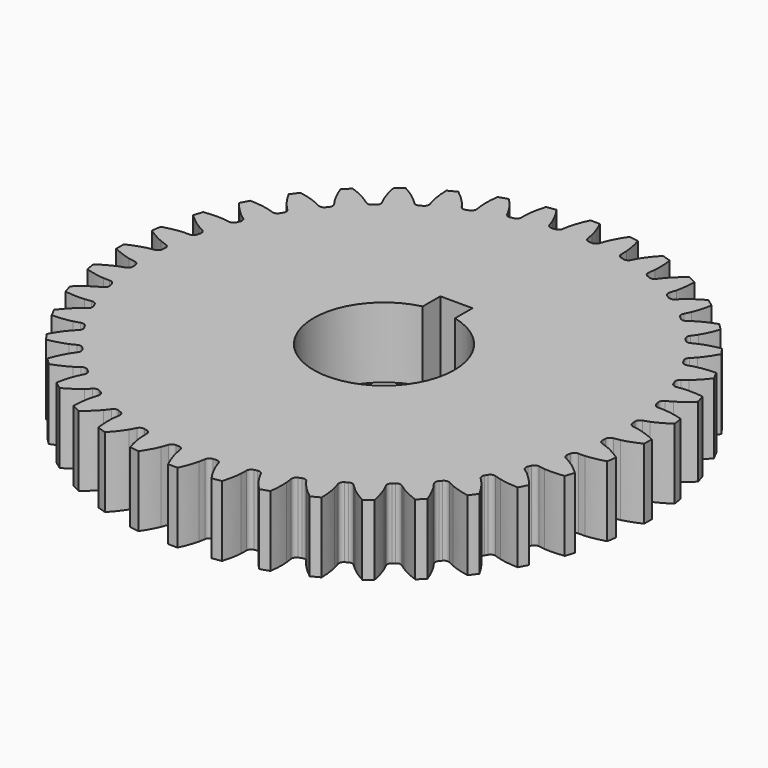
from build123d import *

# Parameters (mm, degrees)
PAD_DEPTH    = 7
POCKET_DEPTH = 7.001


with BuildPart() as part:
    # InvoluteGear → Pad (new body)
    with BuildSketch(Plane.XY):
        with BuildLine():
            add(Edge.make_bspline(
                [(23.803091, -1.251222), (23.961461, -1.232523), (24.173133, -1.198031), (24.435538, -1.134923)],
                knots=[0, 0, 0, 0, 1, 1, 1, 1], degree=3))
            add(Edge.make_bspline(
                [(24.435538, -1.134923), (24.896429, -1.02395), (25.508645, -0.826112), (26.246343, -0.475145)],
                knots=[0, 0, 0, 0, 1, 1, 1, 1], degree=3))
            ThreePointArc((26.246343, -0.475145), (26.250322, 0.000125), (26.245695, 0.475389))
            add(Edge.make_bspline(
                [(26.245695, 0.475389), (25.508645, 0.826112), (24.896429, 1.02395), (24.435538, 1.134923)],
                knots=[0, 0, 0, 0, 1, 1, 1, 1], degree=3))
            add(Edge.make_bspline(
                [(24.435538, 1.134923), (24.173133, 1.198031), (23.961461, 1.232523), (23.803162, 1.25121)],
                knots=[0, 0, 0, 0, 1, 1, 1, 1], degree=3))
            ThreePointArc((23.803162, 1.25121), (23.509632, 1.392834), (23.376469, 1.690299))
            ThreePointArc((23.376469, 1.690299), (23.36525, 1.838885), (23.353087, 1.987397))
            ThreePointArc((23.353087, 1.987397), (23.438058, 2.301998), (23.705769, 2.487806))
            add(Edge.make_bspline(
                [(23.705769, 2.487806), (23.859265, 2.53105), (24.062935, 2.59823), (24.312238, 2.70161)],
                knots=[0, 0, 0, 0, 1, 1, 1, 1], degree=3))
            add(Edge.make_bspline(
                [(24.312238, 2.70161), (24.750094, 2.883316), (25.323823, 3.17449), (25.997536, 3.636537)],
                knots=[0, 0, 0, 0, 1, 1, 1, 1], degree=3))
            ThreePointArc((25.997536, 3.636537), (25.927117, 4.106578), (25.8482, 4.575268))
            add(Edge.make_bspline(
                [(25.8482, 4.575268), (25.065359, 4.806372), (24.429732, 4.906003), (23.957155, 4.943511)],
                knots=[0, 0, 0, 0, 1, 1, 1, 1], degree=3))
            add(Edge.make_bspline(
                [(23.957155, 4.943511), (23.688109, 4.964792), (23.473647, 4.965747), (23.314373, 4.95944)],
                knots=[0, 0, 0, 0, 1, 1, 1, 1], degree=3))
            ThreePointArc((23.314373, 4.95944), (23.002302, 5.053402), (22.824245, 5.326374))
            ThreePointArc((22.824245, 5.326374), (22.78992, 5.471376), (22.754674, 5.616156))
            ThreePointArc((22.754674, 5.616156), (22.789384, 5.940177), (23.024733, 6.165577))
            add(Edge.make_bspline(
                [(23.024733, 6.165577), (23.169574, 6.2323), (23.360228, 6.330514), (23.590289, 6.47162)],
                knots=[0, 0, 0, 0, 1, 1, 1, 1], degree=3))
            add(Edge.make_bspline(
                [(23.590289, 6.47162), (23.994329, 6.719585), (24.515445, 7.096926), (25.108583, 7.658676)],
                knots=[0, 0, 0, 0, 1, 1, 1, 1], degree=3))
            ThreePointArc((25.108583, 7.658676), (24.965501, 8.111914), (24.814236, 8.562488))
            add(Edge.make_bspline(
                [(24.814236, 8.562488), (24.00488, 8.668284), (23.361493, 8.667254), (22.888867, 8.630373)],
                knots=[0, 0, 0, 0, 1, 1, 1, 1], degree=3))
            add(Edge.make_bspline(
                [(22.888867, 8.630373), (22.619804, 8.609304), (22.407834, 8.576697), (22.251508, 8.545553)],
                knots=[0, 0, 0, 0, 1, 1, 1, 1], degree=3))
            ThreePointArc((22.251508, 8.545553), (21.928579, 8.589539), (21.710012, 8.831296))
            ThreePointArc((21.710012, 8.831296), (21.653427, 8.969143), (21.595966, 9.106627))
            ThreePointArc((21.595966, 9.106627), (21.579561, 9.432089), (21.776752, 9.69153))
            add(Edge.make_bspline(
                [(21.776752, 9.69153), (21.909372, 9.78009), (22.082314, 9.906919), (22.287469, 10.082278)],
                knots=[0, 0, 0, 0, 1, 1, 1, 1], degree=3))
            add(Edge.make_bspline(
                [(22.287469, 10.082278), (22.647745, 10.390396), (23.103416, 10.844611), (23.601374, 11.492233)],
                knots=[0, 0, 0, 0, 1, 1, 1, 1], degree=3))
            ThreePointArc((23.601374, 11.492233), (23.389151, 11.917508), (23.169263, 12.338871))
            add(Edge.make_bspline(
                [(23.169263, 12.338871), (22.353322, 12.316753), (21.718017, 12.215089), (21.25698, 12.104727)],
                knots=[0, 0, 0, 0, 1, 1, 1, 1], degree=3))
            add(Edge.make_bspline(
                [(21.25698, 12.104727), (20.994525, 12.041826), (20.790265, 11.976462), (20.640736, 11.921245)],
                knots=[0, 0, 0, 0, 1, 1, 1, 1], degree=3))
            ThreePointArc((20.640736, 11.921245), (20.314902, 11.914173), (20.061207, 12.118762))
            ThreePointArc((20.061207, 12.118762), (19.983754, 12.24606), (19.905493, 12.372863))
            ThreePointArc((19.905493, 12.372863), (19.838377, 12.691751), (19.992555, 12.978846))
            add(Edge.make_bspline(
                [(19.992555, 12.978846), (20.109688, 13.087062), (20.260661, 13.239384), (20.435857, 13.444677)],
                knots=[0, 0, 0, 0, 1, 1, 1, 1], degree=3))
            add(Edge.make_bspline(
                [(20.435857, 13.444677), (20.743497, 13.805361), (21.122504, 14.325267), (21.513021, 15.042813)],
                knots=[0, 0, 0, 0, 1, 1, 1, 1], degree=3))
            ThreePointArc((21.513021, 15.042813), (21.236883, 15.429653), (20.953786, 15.81143))
            add(Edge.make_bspline(
                [(20.953786, 15.81143), (20.151351, 15.661944), (19.539772, 15.462147), (19.101675, 15.281021)],
                knots=[0, 0, 0, 0, 1, 1, 1, 1], degree=3))
            add(Edge.make_bspline(
                [(19.101675, 15.281021), (18.852291, 15.177839), (18.660771, 15.081325), (18.52172, 15.003397)],
                knots=[0, 0, 0, 0, 1, 1, 1, 1], degree=3))
            ThreePointArc((18.52172, 15.003397), (18.201004, 14.945441), (17.918428, 15.107824))
            ThreePointArc((17.918428, 15.107824), (17.822015, 15.221439), (17.724881, 15.334438))
            ThreePointArc((17.724881, 15.334438), (17.608706, 15.6389), (17.716075, 15.946579))
            add(Edge.make_bspline(
                [(17.716075, 15.946579), (17.814837, 16.071787), (17.940122, 16.245851), (18.081047, 16.476023)],
                knots=[0, 0, 0, 0, 1, 1, 1, 1], degree=3))
            add(Edge.make_bspline(
                [(18.081047, 16.476023), (18.328476, 16.880392), (18.621485, 17.453186), (18.894945, 18.222989)],
                knots=[0, 0, 0, 0, 1, 1, 1, 1], degree=3))
            ThreePointArc((18.894945, 18.222989), (18.561692, 18.561869), (18.222358, 18.89466))
            add(Edge.make_bspline(
                [(18.222358, 18.89466), (17.453186, 18.621485), (16.880392, 18.328476), (16.476023, 18.081047)],
                knots=[0, 0, 0, 0, 1, 1, 1, 1], degree=3))
            add(Edge.make_bspline(
                [(16.476023, 18.081047), (16.245851, 17.940122), (16.071787, 17.814837), (15.946639, 17.716116)],
                knots=[0, 0, 0, 0, 1, 1, 1, 1], degree=3))
            ThreePointArc((15.946639, 17.716116), (15.638938, 17.608702), (15.334438, 17.724881))
            ThreePointArc((15.334438, 17.724881), (15.221439, 17.822015), (15.107824, 17.918428))
            ThreePointArc((15.107824, 17.918428), (14.945451, 18.200968), (15.003366, 18.521655))
            add(Edge.make_bspline(
                [(15.003366, 18.521655), (15.081325, 18.660771), (15.177839, 18.852291), (15.281021, 19.101675)],
                knots=[0, 0, 0, 0, 1, 1, 1, 1], degree=3))
            add(Edge.make_bspline(
                [(15.281021, 19.101675), (15.462147, 19.539772), (15.661944, 20.151351), (15.811614, 20.954454)],
                knots=[0, 0, 0, 0, 1, 1, 1, 1], degree=3))
            ThreePointArc((15.811614, 20.954454), (15.429451, 21.23703), (15.042234, 21.51264))
            add(Edge.make_bspline(
                [(15.042234, 21.51264), (14.325267, 21.122504), (13.805361, 20.743497), (13.444677, 20.435857)],
                knots=[0, 0, 0, 0, 1, 1, 1, 1], degree=3))
            add(Edge.make_bspline(
                [(13.444677, 20.435857), (13.239384, 20.260661), (13.087062, 20.109688), (12.978898, 19.992605)],
                knots=[0, 0, 0, 0, 1, 1, 1, 1], degree=3))
            ThreePointArc((12.978898, 19.992605), (12.691788, 19.838379), (12.372863, 19.905493))
            ThreePointArc((12.372863, 19.905493), (12.24606, 19.983754), (12.118762, 20.061207))
            ThreePointArc((12.118762, 20.061207), (11.914189, 20.314868), (11.921224, 20.640666))
            add(Edge.make_bspline(
                [(11.921224, 20.640666), (11.976462, 20.790265), (12.041826, 20.994525), (12.104727, 21.25698)],
                knots=[0, 0, 0, 0, 1, 1, 1, 1], degree=3))
            add(Edge.make_bspline(
                [(12.104727, 21.25698), (12.215089, 21.718017), (12.316753, 22.353322), (12.338948, 23.169951)],
                knots=[0, 0, 0, 0, 1, 1, 1, 1], degree=3))
            ThreePointArc((12.338948, 23.169951), (11.917285, 23.389265), (11.491721, 23.600908))
            add(Edge.make_bspline(
                [(11.491721, 23.600908), (10.844611, 23.103416), (10.390396, 22.647745), (10.082278, 22.287469)],
                knots=[0, 0, 0, 0, 1, 1, 1, 1], degree=3))
            add(Edge.make_bspline(
                [(10.082278, 22.287469), (9.906919, 22.082314), (9.78009, 21.909372), (9.691574, 21.77681)],
                knots=[0, 0, 0, 0, 1, 1, 1, 1], degree=3))
            ThreePointArc((9.691574, 21.77681), (9.432125, 21.579568), (9.106627, 21.595966))
            ThreePointArc((9.106627, 21.595966), (8.969143, 21.653427), (8.831296, 21.710012))
            ThreePointArc((8.831296, 21.710012), (8.58956, 21.928548), (8.545543, 22.251436))
            add(Edge.make_bspline(
                [(8.545543, 22.251436), (8.576697, 22.407834), (8.609304, 22.619804), (8.630373, 22.888867)],
                knots=[0, 0, 0, 0, 1, 1, 1, 1], degree=3))
            add(Edge.make_bspline(
                [(8.630373, 22.888867), (8.667254, 23.361493), (8.668284, 24.00488), (8.562456, 24.814927)],
                knots=[0, 0, 0, 0, 1, 1, 1, 1], degree=3))
            ThreePointArc((8.562456, 24.814927), (8.111677, 24.965578), (7.658244, 25.108043))
            add(Edge.make_bspline(
                [(7.658244, 25.108043), (7.096926, 24.515445), (6.719585, 23.994329), (6.47162, 23.590289)],
                knots=[0, 0, 0, 0, 1, 1, 1, 1], degree=3))
            add(Edge.make_bspline(
                [(6.47162, 23.590289), (6.330514, 23.360228), (6.2323, 23.169574), (6.165611, 23.024798)],
                knots=[0, 0, 0, 0, 1, 1, 1, 1], degree=3))
            ThreePointArc((6.165611, 23.024798), (5.940212, 22.789398), (5.616156, 22.754674))
            ThreePointArc((5.616156, 22.754674), (5.471376, 22.78992), (5.326374, 22.824245))
            ThreePointArc((5.326374, 22.824245), (5.053428, 23.002274), (4.959441, 23.314301))
            add(Edge.make_bspline(
                [(4.959441, 23.314301), (4.965747, 23.473647), (4.964792, 23.688109), (4.943511, 23.957155)],
                knots=[0, 0, 0, 0, 1, 1, 1, 1], degree=3))
            add(Edge.make_bspline(
                [(4.943511, 23.957155), (4.906003, 24.429732), (4.806372, 25.065359), (4.575128, 25.848878)],
                knots=[0, 0, 0, 0, 1, 1, 1, 1], degree=3))
            ThreePointArc((4.575128, 25.848878), (4.106332, 25.927156), (3.636195, 25.996934))
            add(Edge.make_bspline(
                [(3.636195, 25.996934), (3.17449, 25.323823), (2.883316, 24.750094), (2.70161, 24.312238)],
                knots=[0, 0, 0, 0, 1, 1, 1, 1], degree=3))
            add(Edge.make_bspline(
                [(2.70161, 24.312238), (2.59823, 24.062935), (2.53105, 23.859265), (2.48783, 23.705838)],
                knots=[0, 0, 0, 0, 1, 1, 1, 1], degree=3))
            ThreePointArc((2.48783, 23.705838), (2.302031, 23.438076), (1.987397, 23.353087))
            ThreePointArc((1.987397, 23.353087), (1.838885, 23.36525), (1.690299, 23.376469))
            ThreePointArc((1.690299, 23.376469), (1.392863, 23.509608), (1.251222, 23.803091))
            add(Edge.make_bspline(
                [(1.251222, 23.803091), (1.232523, 23.961461), (1.198031, 24.173133), (1.134923, 24.435538)],
                knots=[0, 0, 0, 0, 1, 1, 1, 1], degree=3))
            add(Edge.make_bspline(
                [(1.134923, 24.435538), (1.02395, 24.896429), (0.826112, 25.508645), (0.475145, 26.246343)],
                knots=[0, 0, 0, 0, 1, 1, 1, 1], degree=3))
            ThreePointArc((0.475145, 26.246343), (-0.000125, 26.250322), (-0.475389, 26.245695))
            add(Edge.make_bspline(
                [(-0.475389, 26.245695), (-0.826112, 25.508645), (-1.02395, 24.896429), (-1.134923, 24.435538)],
                knots=[0, 0, 0, 0, 1, 1, 1, 1], degree=3))
            add(Edge.make_bspline(
                [(-1.134923, 24.435538), (-1.198031, 24.173133), (-1.232523, 23.961461), (-1.25121, 23.803162)],
                knots=[0, 0, 0, 0, 1, 1, 1, 1], degree=3))
            ThreePointArc((-1.25121, 23.803162), (-1.392834, 23.509632), (-1.690299, 23.376469))
            ThreePointArc((-1.690299, 23.376469), (-1.838885, 23.36525), (-1.987397, 23.353087))
            ThreePointArc((-1.987397, 23.353087), (-2.301998, 23.438058), (-2.487806, 23.705769))
            add(Edge.make_bspline(
                [(-2.487806, 23.705769), (-2.53105, 23.859265), (-2.59823, 24.062935), (-2.70161, 24.312238)],
                knots=[0, 0, 0, 0, 1, 1, 1, 1], degree=3))
            add(Edge.make_bspline(
                [(-2.70161, 24.312238), (-2.883316, 24.750094), (-3.17449, 25.323823), (-3.636537, 25.997536)],
                knots=[0, 0, 0, 0, 1, 1, 1, 1], degree=3))
            ThreePointArc((-3.636537, 25.997536), (-4.106578, 25.927117), (-4.575268, 25.8482))
            add(Edge.make_bspline(
                [(-4.575268, 25.8482), (-4.806372, 25.065359), (-4.906003, 24.429732), (-4.943511, 23.957155)],
                knots=[0, 0, 0, 0, 1, 1, 1, 1], degree=3))
            add(Edge.make_bspline(
                [(-4.943511, 23.957155), (-4.964792, 23.688109), (-4.965747, 23.473647), (-4.95944, 23.314373)],
                knots=[0, 0, 0, 0, 1, 1, 1, 1], degree=3))
            ThreePointArc((-4.95944, 23.314373), (-5.053402, 23.002302), (-5.326374, 22.824245))
            ThreePointArc((-5.326374, 22.824245), (-5.471376, 22.78992), (-5.616156, 22.754674))
            ThreePointArc((-5.616156, 22.754674), (-5.940177, 22.789384), (-6.165577, 23.024733))
            add(Edge.make_bspline(
                [(-6.165577, 23.024733), (-6.2323, 23.169574), (-6.330514, 23.360228), (-6.47162, 23.590289)],
                knots=[0, 0, 0, 0, 1, 1, 1, 1], degree=3))
            add(Edge.make_bspline(
                [(-6.47162, 23.590289), (-6.719585, 23.994329), (-7.096926, 24.515445), (-7.658676, 25.108583)],
                knots=[0, 0, 0, 0, 1, 1, 1, 1], degree=3))
            ThreePointArc((-7.658676, 25.108583), (-8.111914, 24.965501), (-8.562488, 24.814236))
            add(Edge.make_bspline(
                [(-8.562488, 24.814236), (-8.668284, 24.00488), (-8.667254, 23.361493), (-8.630373, 22.888867)],
                knots=[0, 0, 0, 0, 1, 1, 1, 1], degree=3))
            add(Edge.make_bspline(
                [(-8.630373, 22.888867), (-8.609304, 22.619804), (-8.576697, 22.407834), (-8.545553, 22.251508)],
                knots=[0, 0, 0, 0, 1, 1, 1, 1], degree=3))
            ThreePointArc((-8.545553, 22.251508), (-8.589539, 21.928579), (-8.831296, 21.710012))
            ThreePointArc((-8.831296, 21.710012), (-8.969143, 21.653427), (-9.106627, 21.595966))
            ThreePointArc((-9.106627, 21.595966), (-9.432089, 21.579561), (-9.69153, 21.776752))
            add(Edge.make_bspline(
                [(-9.69153, 21.776752), (-9.78009, 21.909372), (-9.906919, 22.082314), (-10.082278, 22.287469)],
                knots=[0, 0, 0, 0, 1, 1, 1, 1], degree=3))
            add(Edge.make_bspline(
                [(-10.082278, 22.287469), (-10.390396, 22.647745), (-10.844611, 23.103416), (-11.492233, 23.601374)],
                knots=[0, 0, 0, 0, 1, 1, 1, 1], degree=3))
            ThreePointArc((-11.492233, 23.601374), (-11.917508, 23.389151), (-12.338871, 23.169263))
            add(Edge.make_bspline(
                [(-12.338871, 23.169263), (-12.316753, 22.353322), (-12.215089, 21.718017), (-12.104727, 21.25698)],
                knots=[0, 0, 0, 0, 1, 1, 1, 1], degree=3))
            add(Edge.make_bspline(
                [(-12.104727, 21.25698), (-12.041826, 20.994525), (-11.976462, 20.790265), (-11.921245, 20.640736)],
                knots=[0, 0, 0, 0, 1, 1, 1, 1], degree=3))
            ThreePointArc((-11.921245, 20.640736), (-11.914173, 20.314902), (-12.118762, 20.061207))
            ThreePointArc((-12.118762, 20.061207), (-12.24606, 19.983754), (-12.372863, 19.905493))
            ThreePointArc((-12.372863, 19.905493), (-12.691751, 19.838377), (-12.978846, 19.992555))
            add(Edge.make_bspline(
                [(-12.978846, 19.992555), (-13.087062, 20.109688), (-13.239384, 20.260661), (-13.444677, 20.435857)],
                knots=[0, 0, 0, 0, 1, 1, 1, 1], degree=3))
            add(Edge.make_bspline(
                [(-13.444677, 20.435857), (-13.805361, 20.743497), (-14.325267, 21.122504), (-15.042813, 21.513021)],
                knots=[0, 0, 0, 0, 1, 1, 1, 1], degree=3))
            ThreePointArc((-15.042813, 21.513021), (-15.429653, 21.236883), (-15.81143, 20.953786))
            add(Edge.make_bspline(
                [(-15.81143, 20.953786), (-15.661944, 20.151351), (-15.462147, 19.539772), (-15.281021, 19.101675)],
                knots=[0, 0, 0, 0, 1, 1, 1, 1], degree=3))
            add(Edge.make_bspline(
                [(-15.281021, 19.101675), (-15.177839, 18.852291), (-15.081325, 18.660771), (-15.003397, 18.52172)],
                knots=[0, 0, 0, 0, 1, 1, 1, 1], degree=3))
            ThreePointArc((-15.003397, 18.52172), (-14.945441, 18.201004), (-15.107824, 17.918428))
            ThreePointArc((-15.107824, 17.918428), (-15.221439, 17.822015), (-15.334438, 17.724881))
            ThreePointArc((-15.334438, 17.724881), (-15.6389, 17.608706), (-15.946579, 17.716075))
            add(Edge.make_bspline(
                [(-15.946579, 17.716075), (-16.071787, 17.814837), (-16.245851, 17.940122), (-16.476023, 18.081047)],
                knots=[0, 0, 0, 0, 1, 1, 1, 1], degree=3))
            add(Edge.make_bspline(
                [(-16.476023, 18.081047), (-16.880392, 18.328476), (-17.453186, 18.621485), (-18.222989, 18.894945)],
                knots=[0, 0, 0, 0, 1, 1, 1, 1], degree=3))
            ThreePointArc((-18.222989, 18.894945), (-18.561869, 18.561692), (-18.89466, 18.222358))
            add(Edge.make_bspline(
                [(-18.89466, 18.222358), (-18.621485, 17.453186), (-18.328476, 16.880392), (-18.081047, 16.476023)],
                knots=[0, 0, 0, 0, 1, 1, 1, 1], degree=3))
            add(Edge.make_bspline(
                [(-18.081047, 16.476023), (-17.940122, 16.245851), (-17.814837, 16.071787), (-17.716116, 15.946639)],
                knots=[0, 0, 0, 0, 1, 1, 1, 1], degree=3))
            ThreePointArc((-17.716116, 15.946639), (-17.608702, 15.638938), (-17.724881, 15.334438))
            ThreePointArc((-17.724881, 15.334438), (-17.822015, 15.221439), (-17.918428, 15.107824))
            ThreePointArc((-17.918428, 15.107824), (-18.200968, 14.945451), (-18.521655, 15.003366))
            add(Edge.make_bspline(
                [(-18.521655, 15.003366), (-18.660771, 15.081325), (-18.852291, 15.177839), (-19.101675, 15.281021)],
                knots=[0, 0, 0, 0, 1, 1, 1, 1], degree=3))
            add(Edge.make_bspline(
                [(-19.101675, 15.281021), (-19.539772, 15.462147), (-20.151351, 15.661944), (-20.954454, 15.811614)],
                knots=[0, 0, 0, 0, 1, 1, 1, 1], degree=3))
            ThreePointArc((-20.954454, 15.811614), (-21.23703, 15.429451), (-21.51264, 15.042234))
            add(Edge.make_bspline(
                [(-21.51264, 15.042234), (-21.122504, 14.325267), (-20.743497, 13.805361), (-20.435857, 13.444677)],
                knots=[0, 0, 0, 0, 1, 1, 1, 1], degree=3))
            add(Edge.make_bspline(
                [(-20.435857, 13.444677), (-20.260661, 13.239384), (-20.109688, 13.087062), (-19.992605, 12.978898)],
                knots=[0, 0, 0, 0, 1, 1, 1, 1], degree=3))
            ThreePointArc((-19.992605, 12.978898), (-19.838379, 12.691788), (-19.905493, 12.372863))
            ThreePointArc((-19.905493, 12.372863), (-19.983754, 12.24606), (-20.061207, 12.118762))
            ThreePointArc((-20.061207, 12.118762), (-20.314868, 11.914189), (-20.640666, 11.921224))
            add(Edge.make_bspline(
                [(-20.640666, 11.921224), (-20.790265, 11.976462), (-20.994525, 12.041826), (-21.25698, 12.104727)],
                knots=[0, 0, 0, 0, 1, 1, 1, 1], degree=3))
            add(Edge.make_bspline(
                [(-21.25698, 12.104727), (-21.718017, 12.215089), (-22.353322, 12.316753), (-23.169951, 12.338948)],
                knots=[0, 0, 0, 0, 1, 1, 1, 1], degree=3))
            ThreePointArc((-23.169951, 12.338948), (-23.389265, 11.917285), (-23.600908, 11.491721))
            add(Edge.make_bspline(
                [(-23.600908, 11.491721), (-23.103416, 10.844611), (-22.647745, 10.390396), (-22.287469, 10.082278)],
                knots=[0, 0, 0, 0, 1, 1, 1, 1], degree=3))
            add(Edge.make_bspline(
                [(-22.287469, 10.082278), (-22.082314, 9.906919), (-21.909372, 9.78009), (-21.77681, 9.691574)],
                knots=[0, 0, 0, 0, 1, 1, 1, 1], degree=3))
            ThreePointArc((-21.77681, 9.691574), (-21.579568, 9.432125), (-21.595966, 9.106627))
            ThreePointArc((-21.595966, 9.106627), (-21.653427, 8.969143), (-21.710012, 8.831296))
            ThreePointArc((-21.710012, 8.831296), (-21.928548, 8.58956), (-22.251436, 8.545543))
            add(Edge.make_bspline(
                [(-22.251436, 8.545543), (-22.407834, 8.576697), (-22.619804, 8.609304), (-22.888867, 8.630373)],
                knots=[0, 0, 0, 0, 1, 1, 1, 1], degree=3))
            add(Edge.make_bspline(
                [(-22.888867, 8.630373), (-23.361493, 8.667254), (-24.00488, 8.668284), (-24.814927, 8.562456)],
                knots=[0, 0, 0, 0, 1, 1, 1, 1], degree=3))
            ThreePointArc((-24.814927, 8.562456), (-24.965578, 8.111677), (-25.108043, 7.658244))
            add(Edge.make_bspline(
                [(-25.108043, 7.658244), (-24.515445, 7.096926), (-23.994329, 6.719585), (-23.590289, 6.47162)],
                knots=[0, 0, 0, 0, 1, 1, 1, 1], degree=3))
            add(Edge.make_bspline(
                [(-23.590289, 6.47162), (-23.360228, 6.330514), (-23.169574, 6.2323), (-23.024798, 6.165611)],
                knots=[0, 0, 0, 0, 1, 1, 1, 1], degree=3))
            ThreePointArc((-23.024798, 6.165611), (-22.789398, 5.940212), (-22.754674, 5.616156))
            ThreePointArc((-22.754674, 5.616156), (-22.78992, 5.471376), (-22.824245, 5.326374))
            ThreePointArc((-22.824245, 5.326374), (-23.002274, 5.053428), (-23.314301, 4.959441))
            add(Edge.make_bspline(
                [(-23.314301, 4.959441), (-23.473647, 4.965747), (-23.688109, 4.964792), (-23.957155, 4.943511)],
                knots=[0, 0, 0, 0, 1, 1, 1, 1], degree=3))
            add(Edge.make_bspline(
                [(-23.957155, 4.943511), (-24.429732, 4.906003), (-25.065359, 4.806372), (-25.848878, 4.575128)],
                knots=[0, 0, 0, 0, 1, 1, 1, 1], degree=3))
            ThreePointArc((-25.848878, 4.575128), (-25.927156, 4.106332), (-25.996934, 3.636195))
            add(Edge.make_bspline(
                [(-25.996934, 3.636195), (-25.323823, 3.17449), (-24.750094, 2.883316), (-24.312238, 2.70161)],
                knots=[0, 0, 0, 0, 1, 1, 1, 1], degree=3))
            add(Edge.make_bspline(
                [(-24.312238, 2.70161), (-24.062935, 2.59823), (-23.859265, 2.53105), (-23.705838, 2.48783)],
                knots=[0, 0, 0, 0, 1, 1, 1, 1], degree=3))
            ThreePointArc((-23.705838, 2.48783), (-23.438076, 2.302031), (-23.353087, 1.987397))
            ThreePointArc((-23.353087, 1.987397), (-23.36525, 1.838885), (-23.376469, 1.690299))
            ThreePointArc((-23.376469, 1.690299), (-23.509608, 1.392863), (-23.803091, 1.251222))
            add(Edge.make_bspline(
                [(-23.803091, 1.251222), (-23.961461, 1.232523), (-24.173133, 1.198031), (-24.435538, 1.134923)],
                knots=[0, 0, 0, 0, 1, 1, 1, 1], degree=3))
            add(Edge.make_bspline(
                [(-24.435538, 1.134923), (-24.896429, 1.02395), (-25.508645, 0.826112), (-26.246343, 0.475145)],
                knots=[0, 0, 0, 0, 1, 1, 1, 1], degree=3))
            ThreePointArc((-26.246343, 0.475145), (-26.250322, -0.000125), (-26.245695, -0.475389))
            add(Edge.make_bspline(
                [(-26.245695, -0.475389), (-25.508645, -0.826112), (-24.896429, -1.02395), (-24.435538, -1.134923)],
                knots=[0, 0, 0, 0, 1, 1, 1, 1], degree=3))
            add(Edge.make_bspline(
                [(-24.435538, -1.134923), (-24.173133, -1.198031), (-23.961461, -1.232523), (-23.803162, -1.25121)],
                knots=[0, 0, 0, 0, 1, 1, 1, 1], degree=3))
            ThreePointArc((-23.803162, -1.25121), (-23.509632, -1.392834), (-23.376469, -1.690299))
            ThreePointArc((-23.376469, -1.690299), (-23.36525, -1.838885), (-23.353087, -1.987397))
            ThreePointArc((-23.353087, -1.987397), (-23.438058, -2.301998), (-23.705769, -2.487806))
            add(Edge.make_bspline(
                [(-23.705769, -2.487806), (-23.859265, -2.53105), (-24.062935, -2.59823), (-24.312238, -2.70161)],
                knots=[0, 0, 0, 0, 1, 1, 1, 1], degree=3))
            add(Edge.make_bspline(
                [(-24.312238, -2.70161), (-24.750094, -2.883316), (-25.323823, -3.17449), (-25.997536, -3.636537)],
                knots=[0, 0, 0, 0, 1, 1, 1, 1], degree=3))
            ThreePointArc((-25.997536, -3.636537), (-25.927117, -4.106578), (-25.8482, -4.575268))
            add(Edge.make_bspline(
                [(-25.8482, -4.575268), (-25.065359, -4.806372), (-24.429732, -4.906003), (-23.957155, -4.943511)],
                knots=[0, 0, 0, 0, 1, 1, 1, 1], degree=3))
            add(Edge.make_bspline(
                [(-23.957155, -4.943511), (-23.688109, -4.964792), (-23.473647, -4.965747), (-23.314373, -4.95944)],
                knots=[0, 0, 0, 0, 1, 1, 1, 1], degree=3))
            ThreePointArc((-23.314373, -4.95944), (-23.002302, -5.053402), (-22.824245, -5.326374))
            ThreePointArc((-22.824245, -5.326374), (-22.78992, -5.471376), (-22.754674, -5.616156))
            ThreePointArc((-22.754674, -5.616156), (-22.789384, -5.940177), (-23.024733, -6.165577))
            add(Edge.make_bspline(
                [(-23.024733, -6.165577), (-23.169574, -6.2323), (-23.360228, -6.330514), (-23.590289, -6.47162)],
                knots=[0, 0, 0, 0, 1, 1, 1, 1], degree=3))
            add(Edge.make_bspline(
                [(-23.590289, -6.47162), (-23.994329, -6.719585), (-24.515445, -7.096926), (-25.108583, -7.658676)],
                knots=[0, 0, 0, 0, 1, 1, 1, 1], degree=3))
            ThreePointArc((-25.108583, -7.658676), (-24.965501, -8.111914), (-24.814236, -8.562488))
            add(Edge.make_bspline(
                [(-24.814236, -8.562488), (-24.00488, -8.668284), (-23.361493, -8.667254), (-22.888867, -8.630373)],
                knots=[0, 0, 0, 0, 1, 1, 1, 1], degree=3))
            add(Edge.make_bspline(
                [(-22.888867, -8.630373), (-22.619804, -8.609304), (-22.407834, -8.576697), (-22.251508, -8.545553)],
                knots=[0, 0, 0, 0, 1, 1, 1, 1], degree=3))
            ThreePointArc((-22.251508, -8.545553), (-21.928579, -8.589539), (-21.710012, -8.831296))
            ThreePointArc((-21.710012, -8.831296), (-21.653427, -8.969143), (-21.595966, -9.106627))
            ThreePointArc((-21.595966, -9.106627), (-21.579561, -9.432089), (-21.776752, -9.69153))
            add(Edge.make_bspline(
                [(-21.776752, -9.69153), (-21.909372, -9.78009), (-22.082314, -9.906919), (-22.287469, -10.082278)],
                knots=[0, 0, 0, 0, 1, 1, 1, 1], degree=3))
            add(Edge.make_bspline(
                [(-22.287469, -10.082278), (-22.647745, -10.390396), (-23.103416, -10.844611), (-23.601374, -11.492233)],
                knots=[0, 0, 0, 0, 1, 1, 1, 1], degree=3))
            ThreePointArc((-23.601374, -11.492233), (-23.389151, -11.917508), (-23.169263, -12.338871))
            add(Edge.make_bspline(
                [(-23.169263, -12.338871), (-22.353322, -12.316753), (-21.718017, -12.215089), (-21.25698, -12.104727)],
                knots=[0, 0, 0, 0, 1, 1, 1, 1], degree=3))
            add(Edge.make_bspline(
                [(-21.25698, -12.104727), (-20.994525, -12.041826), (-20.790265, -11.976462), (-20.640736, -11.921245)],
                knots=[0, 0, 0, 0, 1, 1, 1, 1], degree=3))
            ThreePointArc((-20.640736, -11.921245), (-20.314902, -11.914173), (-20.061207, -12.118762))
            ThreePointArc((-20.061207, -12.118762), (-19.983754, -12.24606), (-19.905493, -12.372863))
            ThreePointArc((-19.905493, -12.372863), (-19.838377, -12.691751), (-19.992555, -12.978846))
            add(Edge.make_bspline(
                [(-19.992555, -12.978846), (-20.109688, -13.087062), (-20.260661, -13.239384), (-20.435857, -13.444677)],
                knots=[0, 0, 0, 0, 1, 1, 1, 1], degree=3))
            add(Edge.make_bspline(
                [(-20.435857, -13.444677), (-20.743497, -13.805361), (-21.122504, -14.325267), (-21.513021, -15.042813)],
                knots=[0, 0, 0, 0, 1, 1, 1, 1], degree=3))
            ThreePointArc((-21.513021, -15.042813), (-21.236883, -15.429653), (-20.953786, -15.81143))
            add(Edge.make_bspline(
                [(-20.953786, -15.81143), (-20.151351, -15.661944), (-19.539772, -15.462147), (-19.101675, -15.281021)],
                knots=[0, 0, 0, 0, 1, 1, 1, 1], degree=3))
            add(Edge.make_bspline(
                [(-19.101675, -15.281021), (-18.852291, -15.177839), (-18.660771, -15.081325), (-18.52172, -15.003397)],
                knots=[0, 0, 0, 0, 1, 1, 1, 1], degree=3))
            ThreePointArc((-18.52172, -15.003397), (-18.201004, -14.945441), (-17.918428, -15.107824))
            ThreePointArc((-17.918428, -15.107824), (-17.822015, -15.221439), (-17.724881, -15.334438))
            ThreePointArc((-17.724881, -15.334438), (-17.608706, -15.6389), (-17.716075, -15.946579))
            add(Edge.make_bspline(
                [(-17.716075, -15.946579), (-17.814837, -16.071787), (-17.940122, -16.245851), (-18.081047, -16.476023)],
                knots=[0, 0, 0, 0, 1, 1, 1, 1], degree=3))
            add(Edge.make_bspline(
                [(-18.081047, -16.476023), (-18.328476, -16.880392), (-18.621485, -17.453186), (-18.894945, -18.222989)],
                knots=[0, 0, 0, 0, 1, 1, 1, 1], degree=3))
            ThreePointArc((-18.894945, -18.222989), (-18.561692, -18.561869), (-18.222358, -18.89466))
            add(Edge.make_bspline(
                [(-18.222358, -18.89466), (-17.453186, -18.621485), (-16.880392, -18.328476), (-16.476023, -18.081047)],
                knots=[0, 0, 0, 0, 1, 1, 1, 1], degree=3))
            add(Edge.make_bspline(
                [(-16.476023, -18.081047), (-16.245851, -17.940122), (-16.071787, -17.814837), (-15.946639, -17.716116)],
                knots=[0, 0, 0, 0, 1, 1, 1, 1], degree=3))
            ThreePointArc((-15.946639, -17.716116), (-15.638938, -17.608702), (-15.334438, -17.724881))
            ThreePointArc((-15.334438, -17.724881), (-15.221439, -17.822015), (-15.107824, -17.918428))
            ThreePointArc((-15.107824, -17.918428), (-14.945451, -18.200968), (-15.003366, -18.521655))
            add(Edge.make_bspline(
                [(-15.003366, -18.521655), (-15.081325, -18.660771), (-15.177839, -18.852291), (-15.281021, -19.101675)],
                knots=[0, 0, 0, 0, 1, 1, 1, 1], degree=3))
            add(Edge.make_bspline(
                [(-15.281021, -19.101675), (-15.462147, -19.539772), (-15.661944, -20.151351), (-15.811614, -20.954454)],
                knots=[0, 0, 0, 0, 1, 1, 1, 1], degree=3))
            ThreePointArc((-15.811614, -20.954454), (-15.429451, -21.23703), (-15.042234, -21.51264))
            add(Edge.make_bspline(
                [(-15.042234, -21.51264), (-14.325267, -21.122504), (-13.805361, -20.743497), (-13.444677, -20.435857)],
                knots=[0, 0, 0, 0, 1, 1, 1, 1], degree=3))
            add(Edge.make_bspline(
                [(-13.444677, -20.435857), (-13.239384, -20.260661), (-13.087062, -20.109688), (-12.978898, -19.992605)],
                knots=[0, 0, 0, 0, 1, 1, 1, 1], degree=3))
            ThreePointArc((-12.978898, -19.992605), (-12.691788, -19.838379), (-12.372863, -19.905493))
            ThreePointArc((-12.372863, -19.905493), (-12.24606, -19.983754), (-12.118762, -20.061207))
            ThreePointArc((-12.118762, -20.061207), (-11.914189, -20.314868), (-11.921224, -20.640666))
            add(Edge.make_bspline(
                [(-11.921224, -20.640666), (-11.976462, -20.790265), (-12.041826, -20.994525), (-12.104727, -21.25698)],
                knots=[0, 0, 0, 0, 1, 1, 1, 1], degree=3))
            add(Edge.make_bspline(
                [(-12.104727, -21.25698), (-12.215089, -21.718017), (-12.316753, -22.353322), (-12.338948, -23.169951)],
                knots=[0, 0, 0, 0, 1, 1, 1, 1], degree=3))
            ThreePointArc((-12.338948, -23.169951), (-11.917285, -23.389265), (-11.491721, -23.600908))
            add(Edge.make_bspline(
                [(-11.491721, -23.600908), (-10.844611, -23.103416), (-10.390396, -22.647745), (-10.082278, -22.287469)],
                knots=[0, 0, 0, 0, 1, 1, 1, 1], degree=3))
            add(Edge.make_bspline(
                [(-10.082278, -22.287469), (-9.906919, -22.082314), (-9.78009, -21.909372), (-9.691574, -21.77681)],
                knots=[0, 0, 0, 0, 1, 1, 1, 1], degree=3))
            ThreePointArc((-9.691574, -21.77681), (-9.432125, -21.579568), (-9.106627, -21.595966))
            ThreePointArc((-9.106627, -21.595966), (-8.969143, -21.653427), (-8.831296, -21.710012))
            ThreePointArc((-8.831296, -21.710012), (-8.58956, -21.928548), (-8.545543, -22.251436))
            add(Edge.make_bspline(
                [(-8.545543, -22.251436), (-8.576697, -22.407834), (-8.609304, -22.619804), (-8.630373, -22.888867)],
                knots=[0, 0, 0, 0, 1, 1, 1, 1], degree=3))
            add(Edge.make_bspline(
                [(-8.630373, -22.888867), (-8.667254, -23.361493), (-8.668284, -24.00488), (-8.562456, -24.814927)],
                knots=[0, 0, 0, 0, 1, 1, 1, 1], degree=3))
            ThreePointArc((-8.562456, -24.814927), (-8.111677, -24.965578), (-7.658244, -25.108043))
            add(Edge.make_bspline(
                [(-7.658244, -25.108043), (-7.096926, -24.515445), (-6.719585, -23.994329), (-6.47162, -23.590289)],
                knots=[0, 0, 0, 0, 1, 1, 1, 1], degree=3))
            add(Edge.make_bspline(
                [(-6.47162, -23.590289), (-6.330514, -23.360228), (-6.2323, -23.169574), (-6.165611, -23.024798)],
                knots=[0, 0, 0, 0, 1, 1, 1, 1], degree=3))
            ThreePointArc((-6.165611, -23.024798), (-5.940212, -22.789398), (-5.616156, -22.754674))
            ThreePointArc((-5.616156, -22.754674), (-5.471376, -22.78992), (-5.326374, -22.824245))
            ThreePointArc((-5.326374, -22.824245), (-5.053428, -23.002274), (-4.959441, -23.314301))
            add(Edge.make_bspline(
                [(-4.959441, -23.314301), (-4.965747, -23.473647), (-4.964792, -23.688109), (-4.943511, -23.957155)],
                knots=[0, 0, 0, 0, 1, 1, 1, 1], degree=3))
            add(Edge.make_bspline(
                [(-4.943511, -23.957155), (-4.906003, -24.429732), (-4.806372, -25.065359), (-4.575128, -25.848878)],
                knots=[0, 0, 0, 0, 1, 1, 1, 1], degree=3))
            ThreePointArc((-4.575128, -25.848878), (-4.106332, -25.927156), (-3.636195, -25.996934))
            add(Edge.make_bspline(
                [(-3.636195, -25.996934), (-3.17449, -25.323823), (-2.883316, -24.750094), (-2.70161, -24.312238)],
                knots=[0, 0, 0, 0, 1, 1, 1, 1], degree=3))
            add(Edge.make_bspline(
                [(-2.70161, -24.312238), (-2.59823, -24.062935), (-2.53105, -23.859265), (-2.48783, -23.705838)],
                knots=[0, 0, 0, 0, 1, 1, 1, 1], degree=3))
            ThreePointArc((-2.48783, -23.705838), (-2.302031, -23.438076), (-1.987397, -23.353087))
            ThreePointArc((-1.987397, -23.353087), (-1.838885, -23.36525), (-1.690299, -23.376469))
            ThreePointArc((-1.690299, -23.376469), (-1.392863, -23.509608), (-1.251222, -23.803091))
            add(Edge.make_bspline(
                [(-1.251222, -23.803091), (-1.232523, -23.961461), (-1.198031, -24.173133), (-1.134923, -24.435538)],
                knots=[0, 0, 0, 0, 1, 1, 1, 1], degree=3))
            add(Edge.make_bspline(
                [(-1.134923, -24.435538), (-1.02395, -24.896429), (-0.826112, -25.508645), (-0.475145, -26.246343)],
                knots=[0, 0, 0, 0, 1, 1, 1, 1], degree=3))
            ThreePointArc((-0.475145, -26.246343), (0.000125, -26.250322), (0.475389, -26.245695))
            add(Edge.make_bspline(
                [(0.475389, -26.245695), (0.826112, -25.508645), (1.02395, -24.896429), (1.134923, -24.435538)],
                knots=[0, 0, 0, 0, 1, 1, 1, 1], degree=3))
            add(Edge.make_bspline(
                [(1.134923, -24.435538), (1.198031, -24.173133), (1.232523, -23.961461), (1.25121, -23.803162)],
                knots=[0, 0, 0, 0, 1, 1, 1, 1], degree=3))
            ThreePointArc((1.25121, -23.803162), (1.392834, -23.509632), (1.690299, -23.376469))
            ThreePointArc((1.690299, -23.376469), (1.838885, -23.36525), (1.987397, -23.353087))
            ThreePointArc((1.987397, -23.353087), (2.301998, -23.438058), (2.487806, -23.705769))
            add(Edge.make_bspline(
                [(2.487806, -23.705769), (2.53105, -23.859265), (2.59823, -24.062935), (2.70161, -24.312238)],
                knots=[0, 0, 0, 0, 1, 1, 1, 1], degree=3))
            add(Edge.make_bspline(
                [(2.70161, -24.312238), (2.883316, -24.750094), (3.17449, -25.323823), (3.636537, -25.997536)],
                knots=[0, 0, 0, 0, 1, 1, 1, 1], degree=3))
            ThreePointArc((3.636537, -25.997536), (4.106578, -25.927117), (4.575268, -25.8482))
            add(Edge.make_bspline(
                [(4.575268, -25.8482), (4.806372, -25.065359), (4.906003, -24.429732), (4.943511, -23.957155)],
                knots=[0, 0, 0, 0, 1, 1, 1, 1], degree=3))
            add(Edge.make_bspline(
                [(4.943511, -23.957155), (4.964792, -23.688109), (4.965747, -23.473647), (4.95944, -23.314373)],
                knots=[0, 0, 0, 0, 1, 1, 1, 1], degree=3))
            ThreePointArc((4.95944, -23.314373), (5.053402, -23.002302), (5.326374, -22.824245))
            ThreePointArc((5.326374, -22.824245), (5.471376, -22.78992), (5.616156, -22.754674))
            ThreePointArc((5.616156, -22.754674), (5.940177, -22.789384), (6.165577, -23.024733))
            add(Edge.make_bspline(
                [(6.165577, -23.024733), (6.2323, -23.169574), (6.330514, -23.360228), (6.47162, -23.590289)],
                knots=[0, 0, 0, 0, 1, 1, 1, 1], degree=3))
            add(Edge.make_bspline(
                [(6.47162, -23.590289), (6.719585, -23.994329), (7.096926, -24.515445), (7.658676, -25.108583)],
                knots=[0, 0, 0, 0, 1, 1, 1, 1], degree=3))
            ThreePointArc((7.658676, -25.108583), (8.111914, -24.965501), (8.562488, -24.814236))
            add(Edge.make_bspline(
                [(8.562488, -24.814236), (8.668284, -24.00488), (8.667254, -23.361493), (8.630373, -22.888867)],
                knots=[0, 0, 0, 0, 1, 1, 1, 1], degree=3))
            add(Edge.make_bspline(
                [(8.630373, -22.888867), (8.609304, -22.619804), (8.576697, -22.407834), (8.545553, -22.251508)],
                knots=[0, 0, 0, 0, 1, 1, 1, 1], degree=3))
            ThreePointArc((8.545553, -22.251508), (8.589539, -21.928579), (8.831296, -21.710012))
            ThreePointArc((8.831296, -21.710012), (8.969143, -21.653427), (9.106627, -21.595966))
            ThreePointArc((9.106627, -21.595966), (9.432089, -21.579561), (9.69153, -21.776752))
            add(Edge.make_bspline(
                [(9.69153, -21.776752), (9.78009, -21.909372), (9.906919, -22.082314), (10.082278, -22.287469)],
                knots=[0, 0, 0, 0, 1, 1, 1, 1], degree=3))
            add(Edge.make_bspline(
                [(10.082278, -22.287469), (10.390396, -22.647745), (10.844611, -23.103416), (11.492233, -23.601374)],
                knots=[0, 0, 0, 0, 1, 1, 1, 1], degree=3))
            ThreePointArc((11.492233, -23.601374), (11.917508, -23.389151), (12.338871, -23.169263))
            add(Edge.make_bspline(
                [(12.338871, -23.169263), (12.316753, -22.353322), (12.215089, -21.718017), (12.104727, -21.25698)],
                knots=[0, 0, 0, 0, 1, 1, 1, 1], degree=3))
            add(Edge.make_bspline(
                [(12.104727, -21.25698), (12.041826, -20.994525), (11.976462, -20.790265), (11.921245, -20.640736)],
                knots=[0, 0, 0, 0, 1, 1, 1, 1], degree=3))
            ThreePointArc((11.921245, -20.640736), (11.914173, -20.314902), (12.118762, -20.061207))
            ThreePointArc((12.118762, -20.061207), (12.24606, -19.983754), (12.372863, -19.905493))
            ThreePointArc((12.372863, -19.905493), (12.691751, -19.838377), (12.978846, -19.992555))
            add(Edge.make_bspline(
                [(12.978846, -19.992555), (13.087062, -20.109688), (13.239384, -20.260661), (13.444677, -20.435857)],
                knots=[0, 0, 0, 0, 1, 1, 1, 1], degree=3))
            add(Edge.make_bspline(
                [(13.444677, -20.435857), (13.805361, -20.743497), (14.325267, -21.122504), (15.042813, -21.513021)],
                knots=[0, 0, 0, 0, 1, 1, 1, 1], degree=3))
            ThreePointArc((15.042813, -21.513021), (15.429653, -21.236883), (15.81143, -20.953786))
            add(Edge.make_bspline(
                [(15.81143, -20.953786), (15.661944, -20.151351), (15.462147, -19.539772), (15.281021, -19.101675)],
                knots=[0, 0, 0, 0, 1, 1, 1, 1], degree=3))
            add(Edge.make_bspline(
                [(15.281021, -19.101675), (15.177839, -18.852291), (15.081325, -18.660771), (15.003397, -18.52172)],
                knots=[0, 0, 0, 0, 1, 1, 1, 1], degree=3))
            ThreePointArc((15.003397, -18.52172), (14.945441, -18.201004), (15.107824, -17.918428))
            ThreePointArc((15.107824, -17.918428), (15.221439, -17.822015), (15.334438, -17.724881))
            ThreePointArc((15.334438, -17.724881), (15.6389, -17.608706), (15.946579, -17.716075))
            add(Edge.make_bspline(
                [(15.946579, -17.716075), (16.071787, -17.814837), (16.245851, -17.940122), (16.476023, -18.081047)],
                knots=[0, 0, 0, 0, 1, 1, 1, 1], degree=3))
            add(Edge.make_bspline(
                [(16.476023, -18.081047), (16.880392, -18.328476), (17.453186, -18.621485), (18.222989, -18.894945)],
                knots=[0, 0, 0, 0, 1, 1, 1, 1], degree=3))
            ThreePointArc((18.222989, -18.894945), (18.561869, -18.561692), (18.89466, -18.222358))
            add(Edge.make_bspline(
                [(18.89466, -18.222358), (18.621485, -17.453186), (18.328476, -16.880392), (18.081047, -16.476023)],
                knots=[0, 0, 0, 0, 1, 1, 1, 1], degree=3))
            add(Edge.make_bspline(
                [(18.081047, -16.476023), (17.940122, -16.245851), (17.814837, -16.071787), (17.716116, -15.946639)],
                knots=[0, 0, 0, 0, 1, 1, 1, 1], degree=3))
            ThreePointArc((17.716116, -15.946639), (17.608702, -15.638938), (17.724881, -15.334438))
            ThreePointArc((17.724881, -15.334438), (17.822015, -15.221439), (17.918428, -15.107824))
            ThreePointArc((17.918428, -15.107824), (18.200968, -14.945451), (18.521655, -15.003366))
            add(Edge.make_bspline(
                [(18.521655, -15.003366), (18.660771, -15.081325), (18.852291, -15.177839), (19.101675, -15.281021)],
                knots=[0, 0, 0, 0, 1, 1, 1, 1], degree=3))
            add(Edge.make_bspline(
                [(19.101675, -15.281021), (19.539772, -15.462147), (20.151351, -15.661944), (20.954454, -15.811614)],
                knots=[0, 0, 0, 0, 1, 1, 1, 1], degree=3))
            ThreePointArc((20.954454, -15.811614), (21.23703, -15.429451), (21.51264, -15.042234))
            add(Edge.make_bspline(
                [(21.51264, -15.042234), (21.122504, -14.325267), (20.743497, -13.805361), (20.435857, -13.444677)],
                knots=[0, 0, 0, 0, 1, 1, 1, 1], degree=3))
            add(Edge.make_bspline(
                [(20.435857, -13.444677), (20.260661, -13.239384), (20.109688, -13.087062), (19.992605, -12.978898)],
                knots=[0, 0, 0, 0, 1, 1, 1, 1], degree=3))
            ThreePointArc((19.992605, -12.978898), (19.838379, -12.691788), (19.905493, -12.372863))
            ThreePointArc((19.905493, -12.372863), (19.983754, -12.24606), (20.061207, -12.118762))
            ThreePointArc((20.061207, -12.118762), (20.314868, -11.914189), (20.640666, -11.921224))
            add(Edge.make_bspline(
                [(20.640666, -11.921224), (20.790265, -11.976462), (20.994525, -12.041826), (21.25698, -12.104727)],
                knots=[0, 0, 0, 0, 1, 1, 1, 1], degree=3))
            add(Edge.make_bspline(
                [(21.25698, -12.104727), (21.718017, -12.215089), (22.353322, -12.316753), (23.169951, -12.338948)],
                knots=[0, 0, 0, 0, 1, 1, 1, 1], degree=3))
            ThreePointArc((23.169951, -12.338948), (23.389265, -11.917285), (23.600908, -11.491721))
            add(Edge.make_bspline(
                [(23.600908, -11.491721), (23.103416, -10.844611), (22.647745, -10.390396), (22.287469, -10.082278)],
                knots=[0, 0, 0, 0, 1, 1, 1, 1], degree=3))
            add(Edge.make_bspline(
                [(22.287469, -10.082278), (22.082314, -9.906919), (21.909372, -9.78009), (21.77681, -9.691574)],
                knots=[0, 0, 0, 0, 1, 1, 1, 1], degree=3))
            ThreePointArc((21.77681, -9.691574), (21.579568, -9.432125), (21.595966, -9.106627))
            ThreePointArc((21.595966, -9.106627), (21.653427, -8.969143), (21.710012, -8.831296))
            ThreePointArc((21.710012, -8.831296), (21.928548, -8.58956), (22.251436, -8.545543))
            add(Edge.make_bspline(
                [(22.251436, -8.545543), (22.407834, -8.576697), (22.619804, -8.609304), (22.888867, -8.630373)],
                knots=[0, 0, 0, 0, 1, 1, 1, 1], degree=3))
            add(Edge.make_bspline(
                [(22.888867, -8.630373), (23.361493, -8.667254), (24.00488, -8.668284), (24.814927, -8.562456)],
                knots=[0, 0, 0, 0, 1, 1, 1, 1], degree=3))
            ThreePointArc((24.814927, -8.562456), (24.965578, -8.111677), (25.108043, -7.658244))
            add(Edge.make_bspline(
                [(25.108043, -7.658244), (24.515445, -7.096926), (23.994329, -6.719585), (23.590289, -6.47162)],
                knots=[0, 0, 0, 0, 1, 1, 1, 1], degree=3))
            add(Edge.make_bspline(
                [(23.590289, -6.47162), (23.360228, -6.330514), (23.169574, -6.2323), (23.024798, -6.165611)],
                knots=[0, 0, 0, 0, 1, 1, 1, 1], degree=3))
            ThreePointArc((23.024798, -6.165611), (22.789398, -5.940212), (22.754674, -5.616156))
            ThreePointArc((22.754674, -5.616156), (22.78992, -5.471376), (22.824245, -5.326374))
            ThreePointArc((22.824245, -5.326374), (23.002274, -5.053428), (23.314301, -4.959441))
            add(Edge.make_bspline(
                [(23.314301, -4.959441), (23.473647, -4.965747), (23.688109, -4.964792), (23.957155, -4.943511)],
                knots=[0, 0, 0, 0, 1, 1, 1, 1], degree=3))
            add(Edge.make_bspline(
                [(23.957155, -4.943511), (24.429732, -4.906003), (25.065359, -4.806372), (25.848878, -4.575128)],
                knots=[0, 0, 0, 0, 1, 1, 1, 1], degree=3))
            ThreePointArc((25.848878, -4.575128), (25.927156, -4.106332), (25.996934, -3.636195))
            add(Edge.make_bspline(
                [(25.996934, -3.636195), (25.323823, -3.17449), (24.750094, -2.883316), (24.312238, -2.70161)],
                knots=[0, 0, 0, 0, 1, 1, 1, 1], degree=3))
            add(Edge.make_bspline(
                [(24.312238, -2.70161), (24.062935, -2.59823), (23.859265, -2.53105), (23.705838, -2.48783)],
                knots=[0, 0, 0, 0, 1, 1, 1, 1], degree=3))
            ThreePointArc((23.705838, -2.48783), (23.438076, -2.302031), (23.353087, -1.987397))
            ThreePointArc((23.353087, -1.987397), (23.36525, -1.838885), (23.376469, -1.690299))
            ThreePointArc((23.376469, -1.690299), (23.509608, -1.392863), (23.803091, -1.251222))
        make_face()
    extrude(amount=PAD_DEPTH)

    # Sketch001 → Pocket (cut, through all)
    with BuildSketch(Plane.XY.offset(7)):
        with BuildLine():
            ThreePointArc((-1.6, 6.81469), (0, -7), (1.6, 6.81469))
            Line((1.6, 9), (1.6, 6.81469))
            Line((-1.6, 9), (1.6, 9))
            Line((-1.6, 9), (-1.6, 6.81469))
        make_face()
    extrude(amount=-POCKET_DEPTH, mode=Mode.SUBTRACT)


solid = part.part
